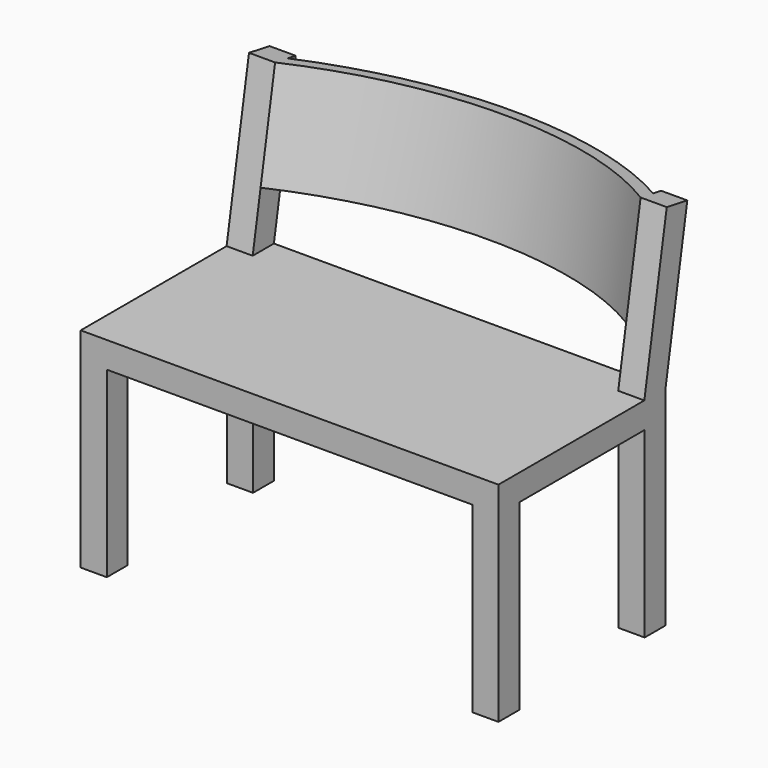
from build123d import *

# Parameters (mm, degrees)
F0_W       = 800
F0_H       = 400
F1_DEPTH   = 400
F2_W       = 300
F2_H       = 350
F3_DEPTH   = 800.001
F4_W       = 700
F4_H       = 350
F5_DEPTH   = 400.001
F8_W       = 800
F8_H       = 300
F9_DEPTH   = 50
F10_W      = 700
F10_H      = 300
F11_DEPTH  = 446.7348071841
F12_DEPTH  = 8.8163490354
F11_FACE_W = 50
F11_FACE_H = 50
F15_DEPTH  = 200


with BuildPart() as f1:
    # F0 (on Top) → F1 (new body)
    with BuildSketch(Plane.XY):
        Rectangle(F0_W, F0_H)
    extrude(amount=F1_DEPTH)

    # F2 (on face) → F3 (cut, through all)
    with BuildSketch(Plane.YZ.offset(400)):
        with Locations((0, 175)):
            Rectangle(F2_W, F2_H)
    extrude(amount=-F3_DEPTH, mode=Mode.SUBTRACT)

    # F4 (on face) → F5 (cut, through all)
    with BuildSketch(Plane.XZ.offset(200)):
        with Locations((0, 175)):
            Rectangle(F4_W, F4_H)
    extrude(amount=-F5_DEPTH, mode=Mode.SUBTRACT)



with BuildPart() as f9:
    # F8 (on face) → F9 (new body)
    with BuildSketch(Plane(origin=(0, 125.5652334135, -22.1405384897), x_dir=(1, 0, 0), z_dir=(0, -0.984807753, 0.1736481777))):
        with Locations((0, 578.6527367383)):
            Rectangle(F8_W, F8_H)
    extrude(amount=F9_DEPTH)

    # F10 (on face) → F11 (cut, through all)
    with BuildSketch(Plane(origin=(0, 125.5652334135, -22.1405384897), x_dir=(-1, 0, 0), z_dir=(0, 0.984807753, -0.1736481777))):
        with Locations((0, 578.6527367383)):
            Rectangle(F10_W, F10_H)
    extrude(amount=-F11_DEPTH, mode=Mode.SUBTRACT)


with BuildPart() as f1_1:
    add(f1.part)
    # F12 (add, through all): a face of the model
    f12_faces = [f9.part.faces().sort_by_distance(p)[0] for p in [
        (-375, 175.3798061747, 404.3412044417),
    ]]

    add(f9.part)  # F12 merges F9
    extrude(f12_faces, amount=F12_DEPTH)

    # F11_face (on face) → F13 (join, up to the next surface of F1)
    with BuildSketch(Plane(origin=(-375, 175.3798061747, 404.3412044417), x_dir=(1, 0, 0), z_dir=(0, -0.1736481777, -0.984807753))):
        with Locations((750, 0)):
            Rectangle(F11_FACE_W, F11_FACE_H)
    extrude(until=Until.NEXT)

    # F14 (on face) → F15 (join)
    with BuildSketch(Plane(origin=(0, 126.5292198866, 717.5828643934), x_dir=(1, 0, 0), z_dir=(0, 0.1736481777, 0.984807753))):
        with BuildLine():
            ThreePointArc((-350, 77.5022795357), (0, 190.1625622952), (350, 77.5022795357))
            Line((350, 77.5022795357), (350, 107.9704417254))
            ThreePointArc((350, 107.9704417254), (-8.8874458979, 215.0993697449), (-364.5833333333, 97.8081010874))
            Line((-364.5833333333, 97.8081010874), (-350, 77.5022795357))
        make_face()
    extrude(amount=-F15_DEPTH)


solid = f1_1.part
